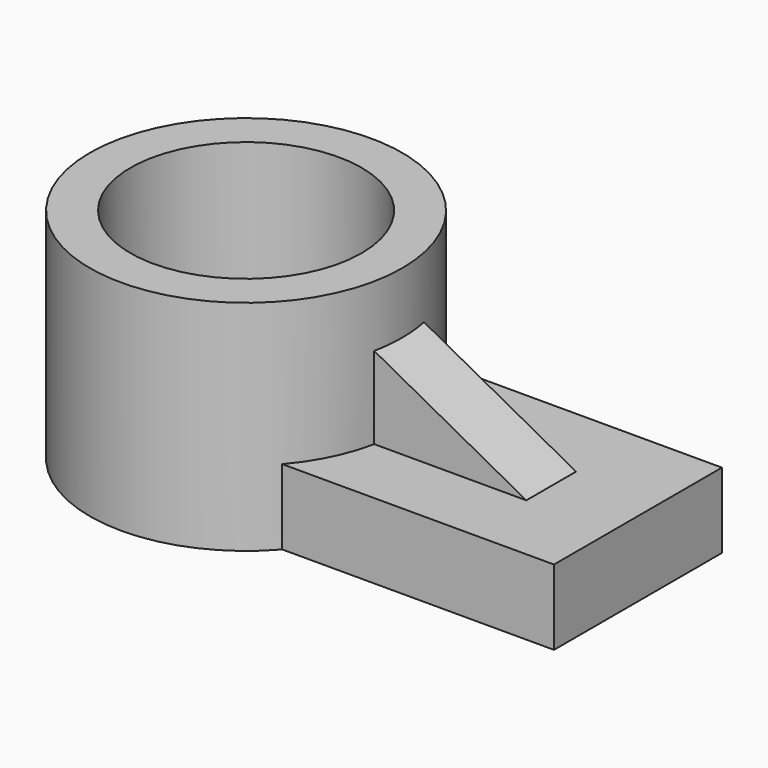
from build123d import *

# Parameters (mm, degrees)
F1_R     = 22.70121
F2_DEPTH = 31.75
F0_W     = 57.163614
F0_H     = 30.503861
F3_DEPTH = 10.922
F4_R     = 16.805864
F5_DEPTH = 45.466
F6_W     = 22.098323
F6_H     = 9.037962
F7_DEPTH = 11.938
F9_DEPTH = 25.4


with BuildPart() as f2:
    # F1 (on face) → F2 (new body)
    with BuildSketch(Plane.XY):
        with Locations((-44.346001, -23.394492)):
            Circle(F1_R)
    extrude(amount=F2_DEPTH)

    # F0 (on Top) → F3 (join)
    with BuildSketch(Plane.XY):
        with Locations((-16.275043, -23.01623)):
            Rectangle(F0_W, F0_H)
    extrude(amount=F3_DEPTH)

    # F4 (on face) → F5 (cut)
    with BuildSketch(Plane.XY.offset(31.75)):
        with Locations((-44.346001, -23.394492)):
            Circle(F4_R)
    extrude(amount=-F5_DEPTH, mode=Mode.SUBTRACT)

    # F6 (on face) → F7 (join)
    with BuildSketch(Plane.XY.offset(10.922)):
        with Locations((-11.049162, -23.398413)):
            Rectangle(F6_W, F6_H)
    extrude(amount=F7_DEPTH)

    # F8 (on face) → F9 (cut)
    with BuildSketch(Plane(origin=(0, -18.879432, 0), x_dir=(-1, 0, 0), z_dir=(0, 1, 0))):
        Polygon((0, 10.922), (22.098323, 22.86), (0, 22.86), align=None)
    extrude(amount=-F9_DEPTH, mode=Mode.SUBTRACT)


solid = f2.part
